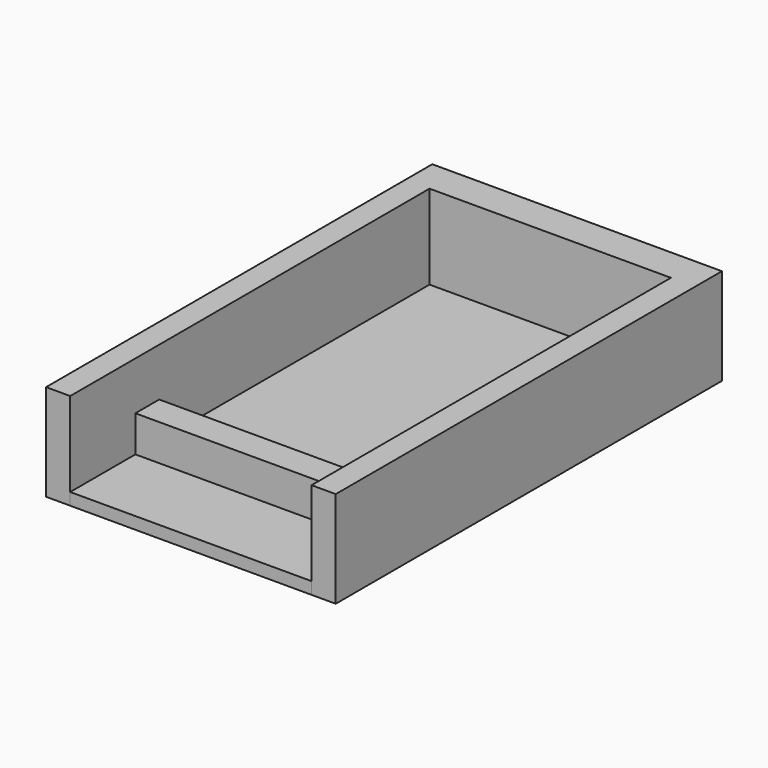
from build123d import *

# Parameters (mm, degrees)
F0_W     = 63.5
F0_H     = 21.427987
F1_DEPTH = 3.175
F2_DEPTH = 25.4
F0_H_2   = 7.839117
F3_DEPTH = 12.7
F0_H_3   = 88.9
F4_DEPTH = 3.175


with BuildPart() as f1:
    # F0 (on Top) → F1 (new body)
    with BuildSketch(Plane.XY):
        with Locations((0, -63.00311)):
            Rectangle(F0_W, F0_H)
    extrude(amount=F1_DEPTH)

    # F0 (on Top) → F2 (join)
    with BuildSketch(Plane.XY):
        Polygon((-31.75, 44.45), (31.75, 44.45), (31.75, -44.45), (31.75, -52.289117), (31.75, -73.717104), (38.1, -73.717104), (38.1, 53.282896), (-38.1, 53.282896), (-38.1, -73.717104), (-31.75, -73.717104), (-31.75, -52.289117), (-31.75, -44.45), align=None)
    extrude(amount=F2_DEPTH)

    # F0 (on Top) → F3 (join)
    with BuildSketch(Plane.XY):
        with Locations((0, -48.369558)):
            Rectangle(F0_W, F0_H_2)
    extrude(amount=F3_DEPTH)

    # F0 (on Top) → F4 (join)
    with BuildSketch(Plane.XY):
        Rectangle(F0_W, F0_H_3)
    extrude(amount=F4_DEPTH)


solid = f1.part
